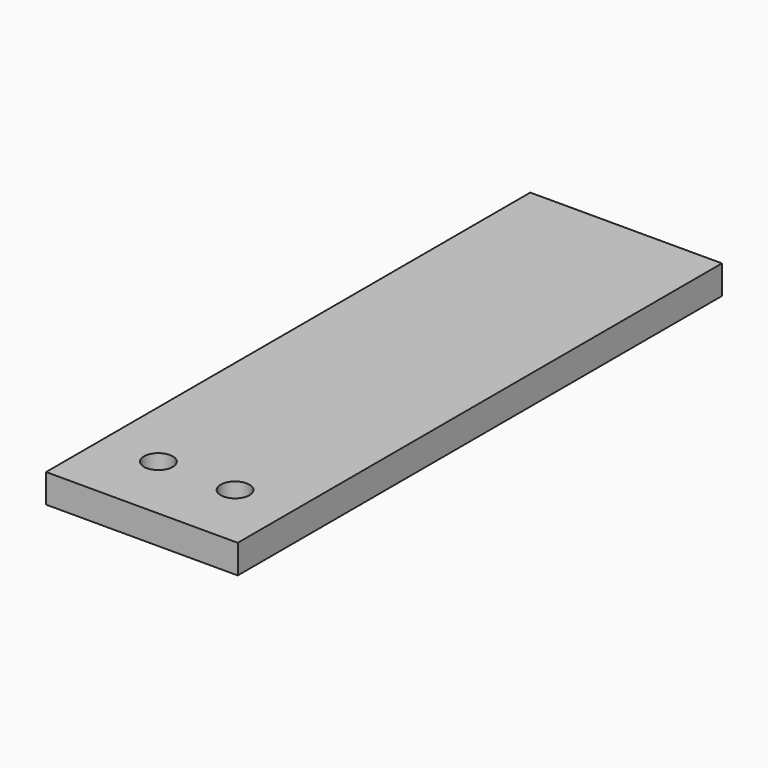
from build123d import *

# Parameters (mm, degrees)
SKETCH_W  = 20
SKETCH_H  = 63.15
SKETCH_R  = 1.5
PAD_DEPTH = 3


with BuildPart() as part:
    # Sketch → Pad (new body)
    with BuildSketch(Plane.XY):
        with Locations((10, 31.575)):
            Rectangle(SKETCH_W, SKETCH_H)
        with Locations((6, 7.15)):
            Circle(SKETCH_R, mode=Mode.SUBTRACT)
        with Locations((14, 7.15)):
            Circle(SKETCH_R, mode=Mode.SUBTRACT)
    extrude(amount=PAD_DEPTH)


solid = part.part
